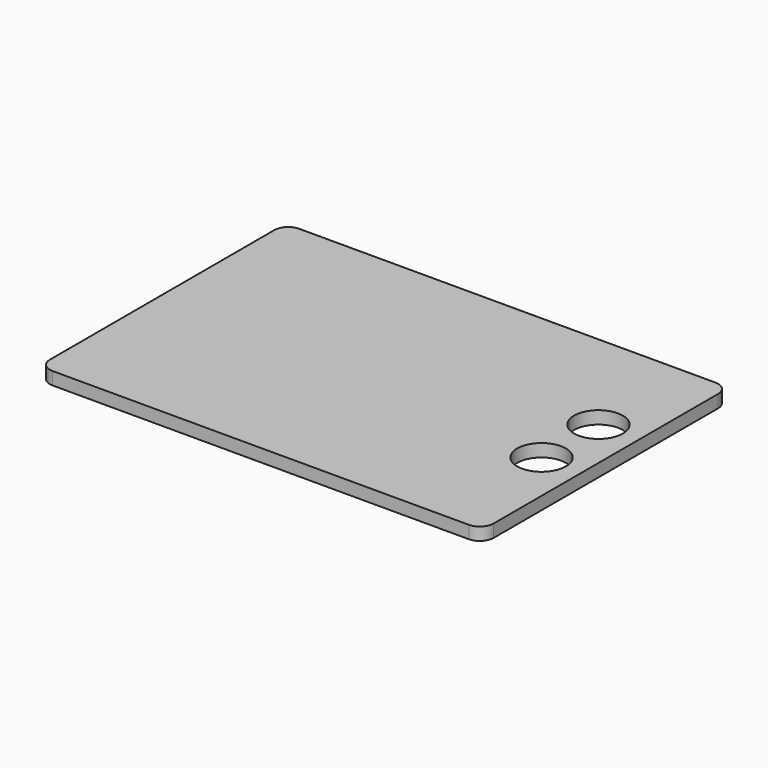
from build123d import *

# Parameters (mm, degrees)
F0_W     = 82
F0_H     = 56.95
F1_DEPTH = 2.35
F2_R     = 2.54
F3_R     = 4.5
F4_DEPTH = 2.35


with BuildPart() as f1:
    # F0 (on Top) → F1 (new body)
    with BuildSketch(Plane.XY):
        Rectangle(F0_W, F0_H)
    extrude(amount=F1_DEPTH)

    # F2
    f2_edges = [f1.edges().sort_by_distance(p)[0] for p in [
        (-41, 28.475, 1.175),
        (-41, -28.475, 1.175),
        (41, 28.475, 1.175),
        (41, -28.475, 1.175),
    ]]
    fillet(f2_edges, radius=F2_R)

    # F3 (on face) → F4 (cut, through all)
    with BuildSketch(Plane.XY.offset(2.35)):
        with Locations((33.5, 7.675)):
            Circle(F3_R)
        with Locations((33.5, -5.475)):
            Circle(F3_R)
    extrude(amount=-F4_DEPTH, mode=Mode.SUBTRACT)


solid = f1.part
